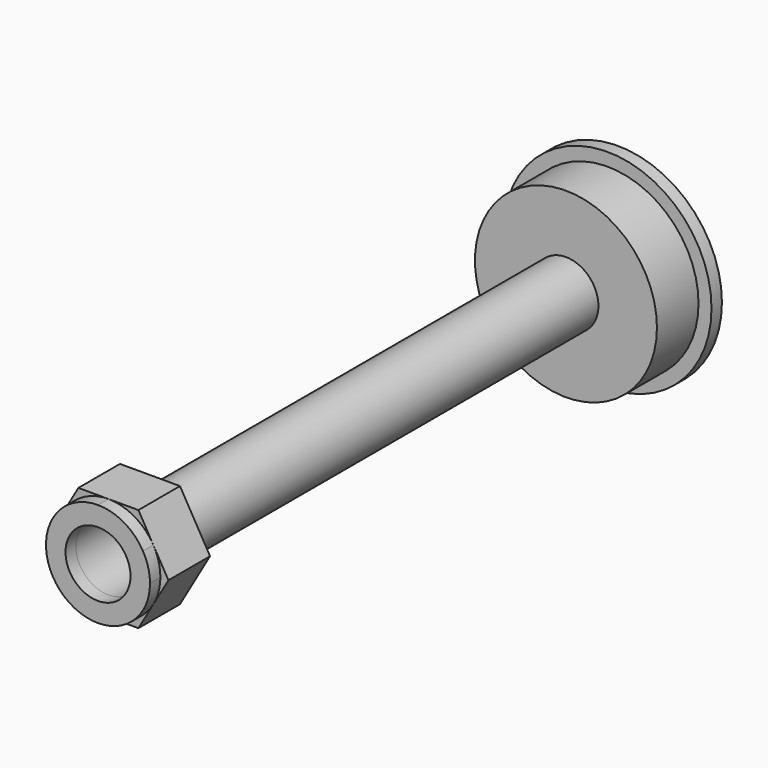
from build123d import *

# Parameters (mm, degrees)
F0_R     = 8
F0_R_2   = 2.5
F1_DEPTH = 1
F2_R     = 7
F2_R_2   = 2.5
F3_DEPTH = 4
F4_R     = 2.5
F5_DEPTH = 40
F6_R     = 2.5
F7_DEPTH = 4
F8_R     = 2.5
F9_DEPTH = 1


with BuildPart() as f1:
    # F0 (on Front) → F1 (new body)
    with BuildSketch(Plane.XZ):
        with Locations((-33.665091, 17.605426)):
            Circle(F0_R)
        with Locations((-33.665091, 17.605426)):
            Circle(F0_R_2, mode=Mode.SUBTRACT)
    extrude(amount=F1_DEPTH)

    # F2 (on face) → F3 (join)
    with BuildSketch(Plane.XZ.offset(1)):
        with Locations((-33.665091, 17.605426)):
            Circle(F2_R)
        with Locations((-33.665091, 17.605426)):
            Circle(F2_R_2, mode=Mode.SUBTRACT)
    extrude(amount=F3_DEPTH)


with BuildPart() as f5:
    # F4 (on face) → F5 (new body)
    with BuildSketch(Plane.XZ.offset(5)):
        with Locations((-33.665091, 17.605426)):
            Circle(F4_R)
    extrude(amount=F5_DEPTH)


with BuildPart() as f7:
    # F6 (on face) → F7 (new body)
    with BuildSketch(Plane.XZ.offset(45)):
        Polygon((-31.35569, 13.605426), (-29.046289, 17.605426), (-31.35569, 21.605426), (-35.974492, 21.605426), (-38.283893, 17.605426), (-35.974492, 13.605426), align=None)
        with Locations((-33.665091, 17.605426)):
            Circle(F6_R, mode=Mode.SUBTRACT)
    extrude(amount=F7_DEPTH)


with BuildPart() as f9:
    # F8 (on face) → F9 (new body)
    with BuildSketch(Plane.XZ.offset(49)):
        with BuildLine():
            ThreePointArc((-30.200989, 15.605426), (-29.801387, 16.57015), (-29.665091, 17.605426))
            ThreePointArc((-29.665091, 17.605426), (-29.801387, 18.640702), (-30.200989, 19.605426))
            ThreePointArc((-30.200989, 19.605426), (-31.665091, 21.069527), (-33.665091, 21.605426))
            ThreePointArc((-33.665091, 21.605426), (-35.665091, 21.069527), (-37.129192, 19.605426))
            ThreePointArc((-37.129192, 19.605426), (-37.665091, 17.605426), (-37.129192, 15.605426))
            ThreePointArc((-37.129192, 15.605426), (-35.665091, 14.141324), (-33.665091, 13.605426))
            ThreePointArc((-33.665091, 13.605426), (-31.665091, 14.141324), (-30.200989, 15.605426))
        make_face()
        with Locations((-33.665091, 17.605426)):
            Circle(F8_R, mode=Mode.SUBTRACT)
    extrude(amount=F9_DEPTH)


solid = Compound([f1.part, f5.part, f7.part, f9.part])
